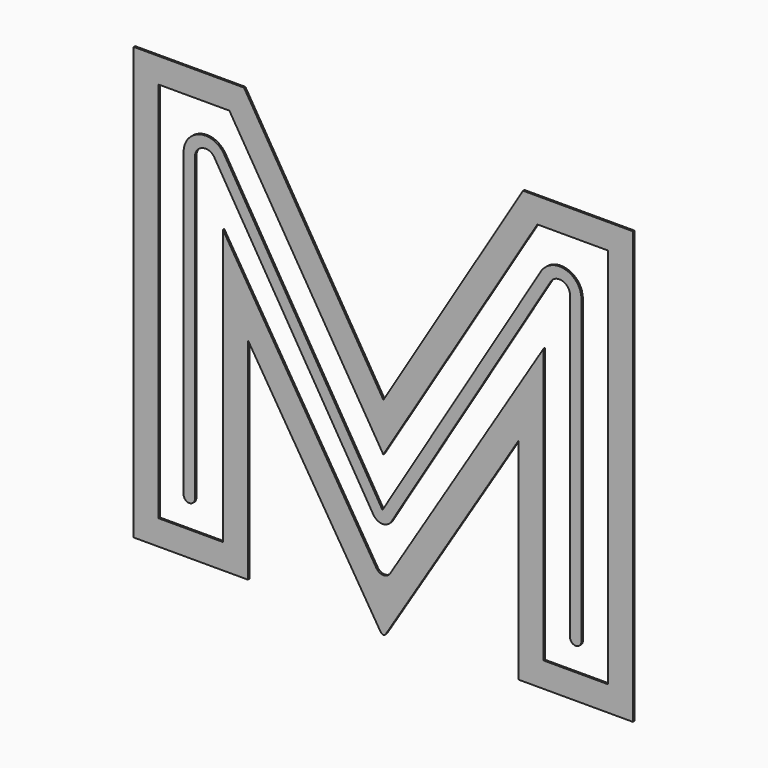
from build123d import *

# Parameters (mm, degrees)
F1_DEPTH = 3.175


with BuildPart() as f1:
    # F0 (on Front) → F1 (new body)
    with BuildSketch(Plane.XZ):
        Polygon((247.952895, -391.40257), (457.200635, -391.40257), (457.200635, 399.614314), (255.877695, 399.614314), (0.112395, -20.773466), (-255.121029, 399.614314), (-457.200635, 399.614314), (-457.200635, -391.40257), (-247.953657, -391.40257), (-247.953657, -5.304866), (-4.540885, -397.115919), (-4.190365, -397.675379), (-2.554605, -398.988686), (-0.047625, -399.614288), (2.459355, -398.990058), (4.095115, -397.678148), (4.445635, -397.118662), (247.952895, -5.624906), align=None)
        Polygon((411.371415, -345.573172), (293.782115, -345.573172), (293.782115, 157.615814), (12.639675, -296.46405), (12.126595, -297.297678), (10.132695, -299.531354), (7.077075, -301.723882), (3.655695, -303.038586), (0.048895, -303.476736), (-3.557905, -303.038586), (-6.981825, -301.722358), (-10.034905, -299.530338), (-12.026265, -297.296408), (-12.541885, -296.461002), (-293.783385, 157.935854), (-293.783385, -345.573172), (-411.371161, -345.573172), (-411.371161, 353.782554), (-281.893645, 353.782554), (0.000635, -108.919086), (282.085415, 353.782554), (411.371415, 353.782554), align=None, mode=Mode.SUBTRACT)
        Polygon((336.024855, 297.046574), (334.439895, 297.526634), (332.857475, 298.009234), (327.950195, 298.966814), (321.511295, 299.342734), (315.217175, 298.687414), (309.164355, 297.036414), (303.446815, 294.422754), (298.153455, 290.879454), (293.380795, 286.442074), (290.160075, 282.543174), (289.227895, 281.146174), (289.194875, 281.092834), (-1.574165, -198.886648), (-292.218999, 281.323974), (-292.287833, 281.433194), (-293.211377, 282.812414), (-296.404157, 286.657974), (-301.140495, 291.029314), (-306.401851, 294.514194), (-312.097293, 297.082134), (-318.131571, 298.705194), (-324.409943, 299.340194), (-330.841477, 298.959194), (-335.745963, 298.009234), (-337.329145, 297.526634), (-338.915121, 297.046574), (-343.522173, 295.111094), (-349.079693, 291.849734), (-353.945571, 287.831454), (-358.059101, 283.129914), (-361.362117, 277.831474), (-363.795945, 272.007254), (-365.297847, 265.743614), (-365.811689, 260.772834), (-365.811689, 259.119294), (-365.811689, -292.358648), (-365.811689, -292.88392), (-365.599599, -294.463038), (-364.988983, -296.425442), (-364.023021, -298.201664), (-362.745655, -299.75081), (-361.196763, -301.0297), (-359.420541, -301.995408), (-357.458391, -302.60577), (-355.879019, -302.819638), (-355.351207, -302.819638), (-354.826189, -302.819638), (-353.246817, -302.60577), (-351.284667, -301.995408), (-349.508445, -301.0297), (-347.959299, -299.75081), (-346.681933, -298.201664), (-345.715971, -296.425442), (-345.105355, -294.463038), (-344.891995, -292.88392), (-344.891995, -292.358648), (-344.891995, 259.119294), (-344.891995, 260.051474), (-344.577543, 262.845474), (-343.688797, 266.147474), (-342.317705, 269.027834), (-340.548341, 271.504334), (-338.471383, 273.584594), (-336.174461, 275.268614), (-333.743427, 276.571634), (-331.899895, 277.313314), (-331.267435, 277.503814), (-330.634721, 277.694314), (-328.688827, 278.103254), (-325.946643, 278.377574), (-323.110479, 278.270894), (-320.246883, 277.732414), (-317.426213, 276.706254), (-314.716795, 275.136534), (-312.185685, 272.964834), (-310.407939, 270.894734), (-309.901971, 270.142894), (-18.053685, -212.063152), (-17.413605, -213.118776), (-14.947265, -215.963322), (-11.038205, -218.880258), (-6.519545, -220.707788), (-2.811145, -221.341772), (-1.574165, -221.341772), (-0.337185, -221.341772), (3.368675, -220.709058), (7.889875, -218.881782), (11.796395, -215.966116), (14.267815, -213.123094), (14.907895, -212.06747), (306.847875, 269.858414), (307.475255, 270.795674), (309.735855, 273.358534), (312.839735, 275.791854), (316.022355, 277.326014), (319.144015, 278.138814), (322.075175, 278.392814), (324.678675, 278.258194), (326.817355, 277.907674), (327.980675, 277.630814), (328.361675, 277.513974), (328.994135, 277.323474), (330.838175, 276.579254), (333.274035, 275.268614), (335.572735, 273.584594), (337.650455, 271.501794), (339.418295, 269.025294), (340.789895, 266.142394), (341.678895, 262.845474), (341.996395, 260.051474), (341.996395, 259.119294), (341.996395, -292.358648), (341.996395, -292.88392), (342.209755, -294.463038), (342.819355, -296.425442), (343.787095, -298.201664), (345.062175, -299.75081), (346.611575, -301.0297), (348.389575, -301.995408), (350.350455, -302.60577), (351.927795, -302.819638), (352.456115, -302.819638), (352.981895, -302.819638), (354.564315, -302.60577), (356.525195, -301.995408), (358.298115, -301.0297), (359.847515, -299.75081), (361.127675, -298.201664), (362.095415, -296.425442), (362.705015, -294.463038), (362.918375, -292.88392), (362.918375, -292.358648), (362.918375, 259.119294), (362.918375, 260.777914), (362.402755, 265.748694), (360.899075, 272.009794), (358.468295, 277.834014), (355.166295, 283.137534), (351.054035, 287.836534), (346.184855, 291.854814), (340.629875, 295.111094), align=None)
    extrude(amount=F1_DEPTH)


solid = f1.part
